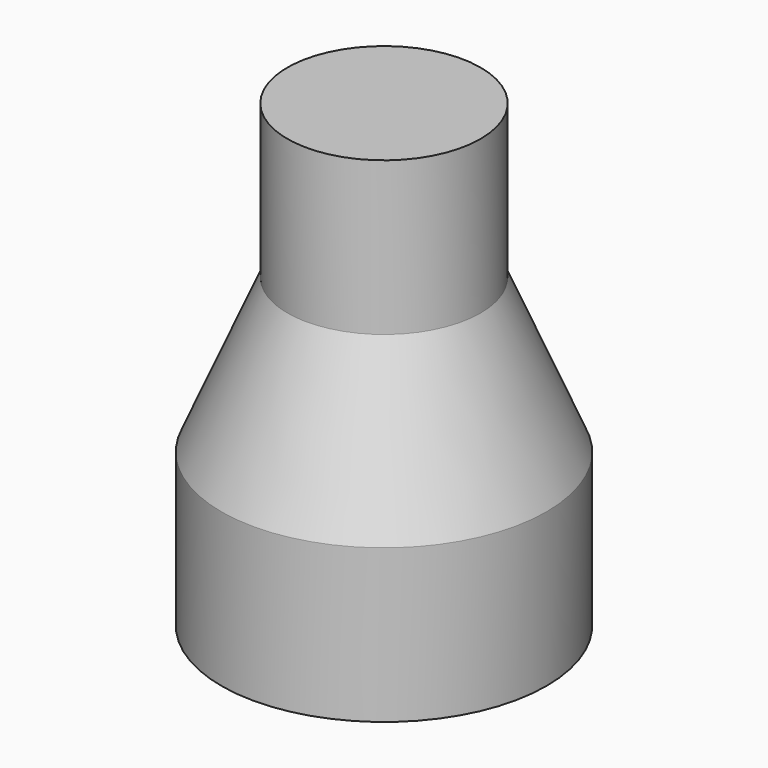
from build123d import *

# Parameters (mm, degrees)
F2_R     = 15.75
F0_R     = 26.5
F4_DEPTH = 25
F5_DEPTH = 25


with BuildPart() as f3:
    # F2 (on offset) → F3 section 0
    with BuildSketch(Plane.XY.offset(25)):
        Circle(F2_R)
    # F0 (on Top) → F3 section 1
    with BuildSketch(Plane.XY):
        Circle(F0_R)
    loft()

    # F4 (add): a face of the model
    f4_faces = [f3.faces().sort_by_distance(p)[0] for p in [
        (0, 0, 25),
    ]]
    extrude(f4_faces, amount=F4_DEPTH)

    # F5 (add): a face of the model
    f5_faces = [f3.faces().sort_by_distance(p)[0] for p in [
        (0, 0, 0),
    ]]
    extrude(f5_faces, amount=F5_DEPTH)


solid = f3.part
